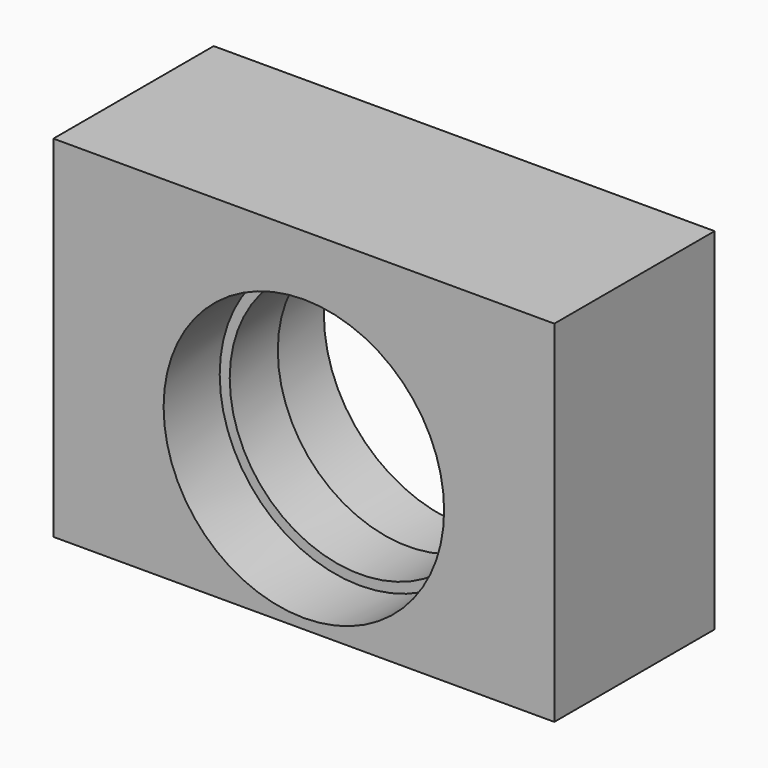
from build123d import *

# Parameters (mm, degrees)
F0_W     = 50
F0_H     = 35
F1_DEPTH = 20
F2_R     = 14
F3_DEPTH = 7
F4_R     = 14
F5_DEPTH = 7
F6_R     = 13
F7_DEPTH = 13.001
F8_R     = 3
F9_DEPTH = 25


with BuildPart() as f1:
    # F0 (on Front) → F1 (new body)
    with BuildSketch(Plane.XZ):
        with Locations((25, 17.5)):
            Rectangle(F0_W, F0_H)
    extrude(amount=F1_DEPTH)

    # F2 (on face) → F3 (cut)
    with BuildSketch(Plane.XZ.offset(20)):
        with Locations((25, 15)):
            Circle(F2_R)
    extrude(amount=-F3_DEPTH, mode=Mode.SUBTRACT)

    # F4 (on face) → F5 (cut)
    with BuildSketch(Plane(origin=(0, 0, 0), x_dir=(-1, 0, 0), z_dir=(0, 1, 0))):
        with Locations((-25, 15)):
            Circle(F4_R)
    extrude(amount=-F5_DEPTH, mode=Mode.SUBTRACT)

    # F6 (on face) → F7 (cut, through all)
    with BuildSketch(Plane(origin=(0, -7, 0), x_dir=(-1, 0, 0), z_dir=(0, 1, 0))):
        with Locations((-25, 15)):
            Circle(F6_R)
    extrude(amount=-F7_DEPTH, mode=Mode.SUBTRACT)

    # F8 (on face) → F9 (cut)
    with BuildSketch(Plane(origin=(0, 0, 0), x_dir=(1, 0, 0), z_dir=(0, 0, -1))):
        with Locations((7.5, 10)):
            Circle(F8_R)
        with Locations((42.5, 10)):
            Circle(F8_R)
    extrude(amount=-F9_DEPTH, mode=Mode.SUBTRACT)


solid = f1.part
